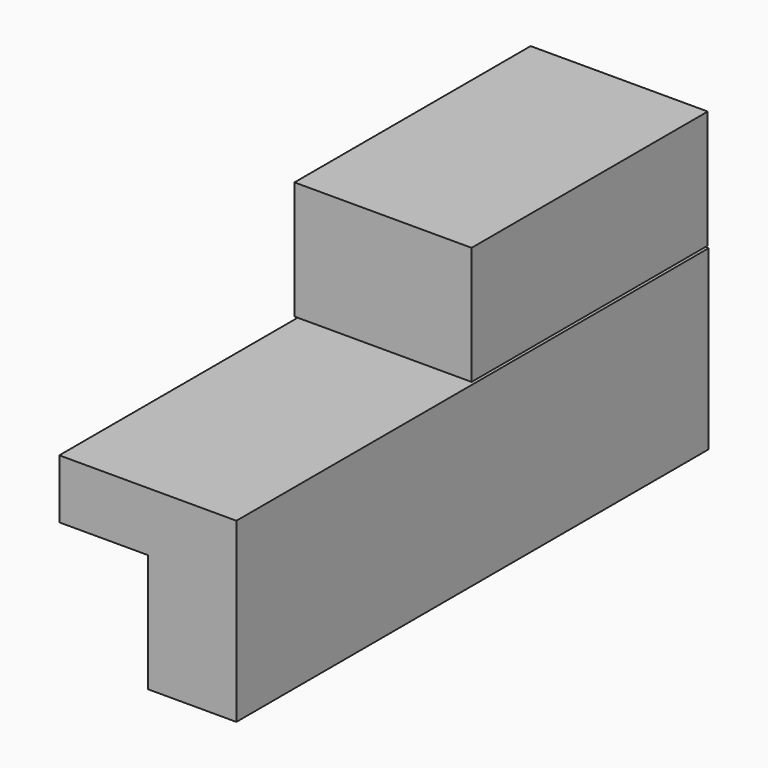
from build123d import *

# Parameters (mm, degrees)
F1_DEPTH = 127
F2_W     = 38.1
F2_H     = 25.4
F3_DEPTH = 33.274
F4_DEPTH = 63.5


with BuildPart() as f1:
    # F0 (on Front) → F1 (new body)
    with BuildSketch(Plane.XZ):
        Polygon((14.094918, -7.682459), (14.094918, -33.082459), (33.144918, -33.082459), (33.144918, 5.017541), (-4.955082, 5.017541), (-4.955082, -7.682459), align=None)
    extrude(amount=F1_DEPTH)


with BuildPart() as f3:
    # F2 (on Front) → F3 (new body)
    with BuildSketch(Plane.XZ):
        with Locations((13.886722, 18.121922)):
            Rectangle(F2_W, F2_H)
    extrude(amount=F3_DEPTH)

    # F2 (on Front) → F4 (join)
    with BuildSketch(Plane.XZ):
        with Locations((13.886722, 18.121922)):
            Rectangle(F2_W, F2_H)
    extrude(amount=F4_DEPTH)


solid = Compound([f1.part, f3.part])
